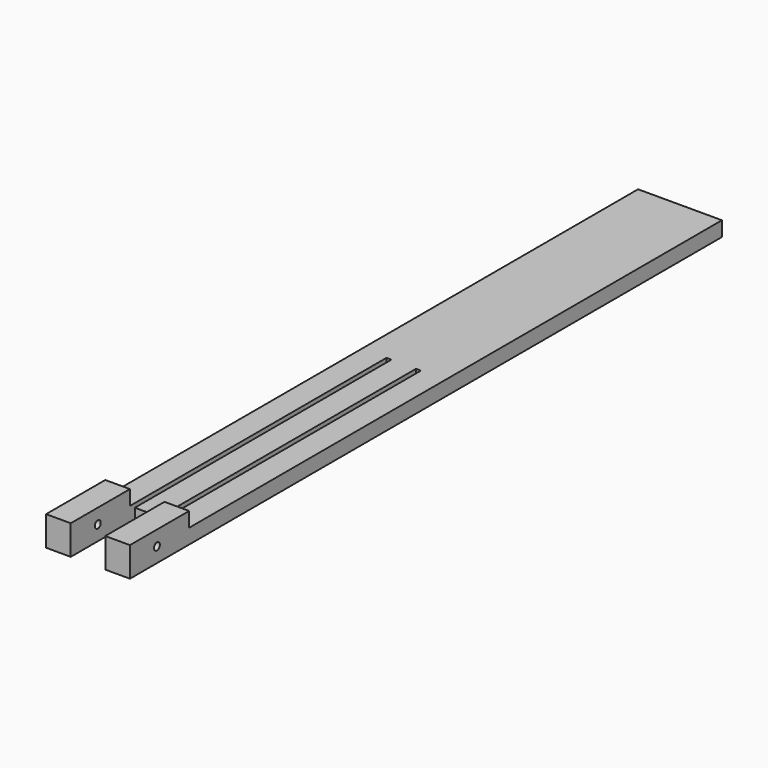
from build123d import *

# Parameters (mm, degrees)
F1_DEPTH = 6
F2_W     = 10
F2_H     = 30
F3_DEPTH = 6
F4_R     = 1.5
F5_DEPTH = 34.001


with BuildPart() as f1:
    # F0 (on Top) → F1 (new body)
    with BuildSketch(Plane.XY):
        Polygon((7, -150), (17, -150), (17, 150), (-17, 150), (-17, -150), (-7, -150), (-7, 10), (-5, 10), (-5, -120), (5, -120), (5, 10), (7, 10), align=None)
    extrude(amount=F1_DEPTH)

    # F2 (on face) → F3 (join)
    with BuildSketch(Plane.XY.offset(6)):
        with Locations((-12, -135)):
            Rectangle(F2_W, F2_H)
        with Locations((12, -135)):
            Rectangle(F2_W, F2_H)
    extrude(amount=F3_DEPTH)

    # F4 (on face) → F5 (cut, through all)
    with BuildSketch(Plane(origin=(-17, 0, 0), x_dir=(0, -1, 0), z_dir=(-1, 0, 0))):
        with Locations((136.304066, 6)):
            Circle(F4_R)
    extrude(amount=-F5_DEPTH, mode=Mode.SUBTRACT)


solid = f1.part
